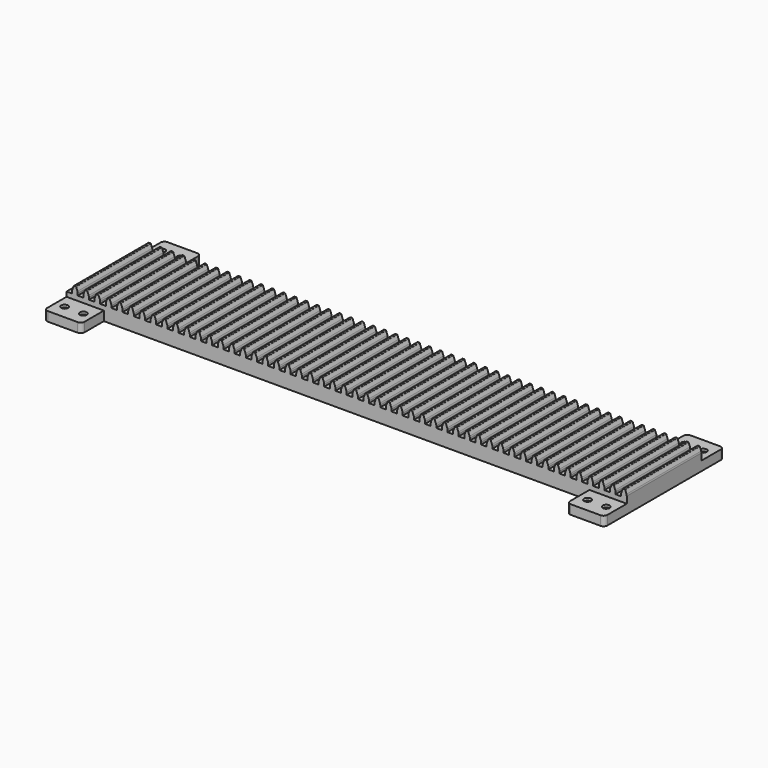
from build123d import *

# Parameters (mm, degrees)
F2_DEPTH       = 127
F1_W           = 50.8
F1_H           = 12.7
F3_DEPTH       = 38.1
F4_DEPTH       = 165.1
F5_R           = 5.08
F7_D           = 4.826
F7_CBORE_D     = 9.4742
F7_CBORE_DEPTH = 3.3782


with BuildPart() as f2:
    # F0 (on Front) → F2 (new body)
    with BuildSketch(Plane.XZ):
        Polygon((7.62, 0), (0, 0), (0, -19.05), (762, -19.05), (762, 0), (754.38, 0), (746.76, 0), (739.14, 0), (731.52, 0), (723.9, 0), (716.28, 0), (708.66, 0), (701.04, 0), (693.42, 0), (685.8, 0), (678.18, 0), (670.56, 0), (662.94, 0), (655.32, 0), (647.7, 0), (640.08, 0), (632.46, 0), (624.84, 0), (617.22, 0), (609.6, 0), (601.98, 0), (594.36, 0), (586.74, 0), (579.12, 0), (571.5, 0), (563.88, 0), (556.26, 0), (548.64, 0), (541.02, 0), (533.4, 0), (525.78, 0), (518.16, 0), (510.54, 0), (502.92, 0), (495.3, 0), (487.68, 0), (480.06, 0), (472.44, 0), (464.82, 0), (457.2, 0), (449.58, 0), (441.96, 0), (434.34, 0), (426.72, 0), (419.1, 0), (411.48, 0), (403.86, 0), (396.24, 0), (388.62, 0), (381, 0), (373.38, 0), (365.76, 0), (358.14, 0), (350.52, 0), (342.9, 0), (335.28, 0), (327.66, 0), (320.04, 0), (312.42, 0), (304.8, 0), (297.18, 0), (289.56, 0), (281.94, 0), (274.32, 0), (266.7, 0), (259.08, 0), (251.46, 0), (243.84, 0), (236.22, 0), (228.6, 0), (220.98, 0), (213.36, 0), (205.74, 0), (198.12, 0), (190.5, 0), (182.88, 0), (175.26, 0), (167.64, 0), (160.02, 0), (152.4, 0), (144.78, 0), (137.16, 0), (129.54, 0), (121.92, 0), (114.3, 0), (106.68, 0), (99.06, 0), (91.44, 0), (83.82, 0), (76.2, 0), (68.58, 0), (60.96, 0), (53.34, 0), (45.72, 0), (38.1, 0), (30.48, 0), (22.86, 0), (15.24, 0), align=None)
        with BuildLine():
            Line((7.62, 2.763048), (7.62, 0))
            Line((7.62, 0), (15.24, 0))
            Line((15.24, 0), (15.24, 2.763048))
            ThreePointArc((15.24, 2.763048), (15.138609, 3.893261), (14.837675, 4.987382))
            Line((14.837675, 4.987382), (13.094524, 9.648417))
            ThreePointArc((13.094524, 9.648417), (12.805799, 10.019584), (12.357012, 10.16))
            Line((12.357012, 10.16), (10.502988, 10.16))
            ThreePointArc((10.502988, 10.16), (10.054201, 10.019584), (9.765476, 9.648417))
            Line((9.765476, 9.648417), (8.022325, 4.987382))
            ThreePointArc((8.022325, 4.987382), (7.721391, 3.893261), (7.62, 2.763048))
        make_face()
        with BuildLine():
            Line((22.86, 2.763048), (22.86, 0))
            Line((22.86, 0), (30.48, 0))
            Line((30.48, 0), (30.48, 2.763048))
            ThreePointArc((30.48, 2.763048), (30.378609, 3.893261), (30.077675, 4.987382))
            Line((30.077675, 4.987382), (28.334524, 9.648417))
            ThreePointArc((28.334524, 9.648417), (28.045799, 10.019584), (27.597012, 10.16))
            Line((27.597012, 10.16), (25.742988, 10.16))
            ThreePointArc((25.742988, 10.16), (25.294201, 10.019584), (25.005476, 9.648417))
            Line((25.005476, 9.648417), (23.262325, 4.987382))
            ThreePointArc((23.262325, 4.987382), (22.961391, 3.893261), (22.86, 2.763048))
        make_face()
        with BuildLine():
            Line((754.38, 0), (762, 0))
            Line((762, 0), (762, 2.763048))
            ThreePointArc((762, 2.763048), (761.898609, 3.893261), (761.597675, 4.987382))
            Line((761.597675, 4.987382), (759.854524, 9.648417))
            ThreePointArc((759.854524, 9.648417), (759.565799, 10.019584), (759.117012, 10.16))
            Line((759.117012, 10.16), (757.262988, 10.16))
            ThreePointArc((757.262988, 10.16), (756.814201, 10.019584), (756.525476, 9.648417))
            Line((756.525476, 9.648417), (754.782325, 4.987382))
            ThreePointArc((754.782325, 4.987382), (754.481391, 3.893261), (754.38, 2.763048))
            Line((754.38, 2.763048), (754.38, 0))
        make_face()
        with BuildLine():
            Line((38.1, 2.763048), (38.1, 0))
            Line((38.1, 0), (45.72, 0))
            Line((45.72, 0), (45.72, 2.763048))
            ThreePointArc((45.72, 2.763048), (45.618609, 3.893261), (45.317675, 4.987382))
            Line((45.317675, 4.987382), (43.574524, 9.648417))
            ThreePointArc((43.574524, 9.648417), (43.285799, 10.019584), (42.837012, 10.16))
            Line((42.837012, 10.16), (40.982988, 10.16))
            ThreePointArc((40.982988, 10.16), (40.534201, 10.019584), (40.245476, 9.648417))
            Line((40.245476, 9.648417), (38.502325, 4.987382))
            ThreePointArc((38.502325, 4.987382), (38.201391, 3.893261), (38.1, 2.763048))
        make_face()
        with BuildLine():
            Line((739.14, 0), (746.76, 0))
            Line((746.76, 0), (746.76, 2.763048))
            ThreePointArc((746.76, 2.763048), (746.658609, 3.893261), (746.357675, 4.987382))
            Line((746.357675, 4.987382), (744.614524, 9.648417))
            ThreePointArc((744.614524, 9.648417), (744.325799, 10.019584), (743.877012, 10.16))
            Line((743.877012, 10.16), (742.022988, 10.16))
            ThreePointArc((742.022988, 10.16), (741.574201, 10.019584), (741.285476, 9.648417))
            Line((741.285476, 9.648417), (739.542325, 4.987382))
            ThreePointArc((739.542325, 4.987382), (739.241391, 3.893261), (739.14, 2.763048))
            Line((739.14, 2.763048), (739.14, 0))
        make_face()
        with BuildLine():
            Line((53.34, 2.763048), (53.34, 0))
            Line((53.34, 0), (60.96, 0))
            Line((60.96, 0), (60.96, 2.763048))
            ThreePointArc((60.96, 2.763048), (60.858609, 3.893261), (60.557675, 4.987382))
            Line((60.557675, 4.987382), (58.814524, 9.648417))
            ThreePointArc((58.814524, 9.648417), (58.525799, 10.019584), (58.077012, 10.16))
            Line((58.077012, 10.16), (56.222988, 10.16))
            ThreePointArc((56.222988, 10.16), (55.774201, 10.019584), (55.485476, 9.648417))
            Line((55.485476, 9.648417), (53.742325, 4.987382))
            ThreePointArc((53.742325, 4.987382), (53.441391, 3.893261), (53.34, 2.763048))
        make_face()
        with BuildLine():
            Line((723.9, 0), (731.52, 0))
            Line((731.52, 0), (731.52, 2.763048))
            ThreePointArc((731.52, 2.763048), (731.418609, 3.893261), (731.117675, 4.987382))
            Line((731.117675, 4.987382), (729.374524, 9.648417))
            ThreePointArc((729.374524, 9.648417), (729.085799, 10.019584), (728.637012, 10.16))
            Line((728.637012, 10.16), (726.782988, 10.16))
            ThreePointArc((726.782988, 10.16), (726.334201, 10.019584), (726.045476, 9.648417))
            Line((726.045476, 9.648417), (724.302325, 4.987382))
            ThreePointArc((724.302325, 4.987382), (724.001391, 3.893261), (723.9, 2.763048))
            Line((723.9, 2.763048), (723.9, 0))
        make_face()
        with BuildLine():
            Line((68.58, 2.763048), (68.58, 0))
            Line((68.58, 0), (76.2, 0))
            Line((76.2, 0), (76.2, 2.763048))
            ThreePointArc((76.2, 2.763048), (76.098609, 3.893261), (75.797675, 4.987382))
            Line((75.797675, 4.987382), (74.054524, 9.648417))
            ThreePointArc((74.054524, 9.648417), (73.765799, 10.019584), (73.317012, 10.16))
            Line((73.317012, 10.16), (71.462988, 10.16))
            ThreePointArc((71.462988, 10.16), (71.014201, 10.019584), (70.725476, 9.648417))
            Line((70.725476, 9.648417), (68.982325, 4.987382))
            ThreePointArc((68.982325, 4.987382), (68.681391, 3.893261), (68.58, 2.763048))
        make_face()
        with BuildLine():
            Line((708.66, 0), (716.28, 0))
            Line((716.28, 0), (716.28, 2.763048))
            ThreePointArc((716.28, 2.763048), (716.178609, 3.893261), (715.877675, 4.987382))
            Line((715.877675, 4.987382), (714.134524, 9.648417))
            ThreePointArc((714.134524, 9.648417), (713.845799, 10.019584), (713.397012, 10.16))
            Line((713.397012, 10.16), (711.542988, 10.16))
            ThreePointArc((711.542988, 10.16), (711.094201, 10.019584), (710.805476, 9.648417))
            Line((710.805476, 9.648417), (709.062325, 4.987382))
            ThreePointArc((709.062325, 4.987382), (708.761391, 3.893261), (708.66, 2.763048))
            Line((708.66, 2.763048), (708.66, 0))
        make_face()
        with BuildLine():
            Line((83.82, 2.763048), (83.82, 0))
            Line((83.82, 0), (91.44, 0))
            Line((91.44, 0), (91.44, 2.763048))
            ThreePointArc((91.44, 2.763048), (91.338609, 3.893261), (91.037675, 4.987382))
            Line((91.037675, 4.987382), (89.294524, 9.648417))
            ThreePointArc((89.294524, 9.648417), (89.005799, 10.019584), (88.557012, 10.16))
            Line((88.557012, 10.16), (86.702988, 10.16))
            ThreePointArc((86.702988, 10.16), (86.254201, 10.019584), (85.965476, 9.648417))
            Line((85.965476, 9.648417), (84.222325, 4.987382))
            ThreePointArc((84.222325, 4.987382), (83.921391, 3.893261), (83.82, 2.763048))
        make_face()
        with BuildLine():
            Line((693.42, 0), (701.04, 0))
            Line((701.04, 0), (701.04, 2.763048))
            ThreePointArc((701.04, 2.763048), (700.938609, 3.893261), (700.637675, 4.987382))
            Line((700.637675, 4.987382), (698.894524, 9.648417))
            ThreePointArc((698.894524, 9.648417), (698.605799, 10.019584), (698.157012, 10.16))
            Line((698.157012, 10.16), (696.302988, 10.16))
            ThreePointArc((696.302988, 10.16), (695.854201, 10.019584), (695.565476, 9.648417))
            Line((695.565476, 9.648417), (693.822325, 4.987382))
            ThreePointArc((693.822325, 4.987382), (693.521391, 3.893261), (693.42, 2.763048))
            Line((693.42, 2.763048), (693.42, 0))
        make_face()
        with BuildLine():
            Line((99.06, 2.763048), (99.06, 0))
            Line((99.06, 0), (106.68, 0))
            Line((106.68, 0), (106.68, 2.763048))
            ThreePointArc((106.68, 2.763048), (106.578609, 3.893261), (106.277675, 4.987382))
            Line((106.277675, 4.987382), (104.534524, 9.648417))
            ThreePointArc((104.534524, 9.648417), (104.245799, 10.019584), (103.797012, 10.16))
            Line((103.797012, 10.16), (101.942988, 10.16))
            ThreePointArc((101.942988, 10.16), (101.494201, 10.019584), (101.205476, 9.648417))
            Line((101.205476, 9.648417), (99.462325, 4.987382))
            ThreePointArc((99.462325, 4.987382), (99.161391, 3.893261), (99.06, 2.763048))
        make_face()
        with BuildLine():
            Line((678.18, 0), (685.8, 0))
            Line((685.8, 0), (685.8, 2.763048))
            ThreePointArc((685.8, 2.763048), (685.698609, 3.893261), (685.397675, 4.987382))
            Line((685.397675, 4.987382), (683.654524, 9.648417))
            ThreePointArc((683.654524, 9.648417), (683.365799, 10.019584), (682.917012, 10.16))
            Line((682.917012, 10.16), (681.062988, 10.16))
            ThreePointArc((681.062988, 10.16), (680.614201, 10.019584), (680.325476, 9.648417))
            Line((680.325476, 9.648417), (678.582325, 4.987382))
            ThreePointArc((678.582325, 4.987382), (678.281391, 3.893261), (678.18, 2.763048))
            Line((678.18, 2.763048), (678.18, 0))
        make_face()
        with BuildLine():
            Line((114.3, 2.763048), (114.3, 0))
            Line((114.3, 0), (121.92, 0))
            Line((121.92, 0), (121.92, 2.763048))
            ThreePointArc((121.92, 2.763048), (121.818609, 3.893261), (121.517675, 4.987382))
            Line((121.517675, 4.987382), (119.774524, 9.648417))
            ThreePointArc((119.774524, 9.648417), (119.485799, 10.019584), (119.037012, 10.16))
            Line((119.037012, 10.16), (117.182988, 10.16))
            ThreePointArc((117.182988, 10.16), (116.734201, 10.019584), (116.445476, 9.648417))
            Line((116.445476, 9.648417), (114.702325, 4.987382))
            ThreePointArc((114.702325, 4.987382), (114.401391, 3.893261), (114.3, 2.763048))
        make_face()
        with BuildLine():
            Line((662.94, 0), (670.56, 0))
            Line((670.56, 0), (670.56, 2.763048))
            ThreePointArc((670.56, 2.763048), (670.458609, 3.893261), (670.157675, 4.987382))
            Line((670.157675, 4.987382), (668.414524, 9.648417))
            ThreePointArc((668.414524, 9.648417), (668.125799, 10.019584), (667.677012, 10.16))
            Line((667.677012, 10.16), (665.822988, 10.16))
            ThreePointArc((665.822988, 10.16), (665.374201, 10.019584), (665.085476, 9.648417))
            Line((665.085476, 9.648417), (663.342325, 4.987382))
            ThreePointArc((663.342325, 4.987382), (663.041391, 3.893261), (662.94, 2.763048))
            Line((662.94, 2.763048), (662.94, 0))
        make_face()
        with BuildLine():
            Line((129.54, 2.763048), (129.54, 0))
            Line((129.54, 0), (137.16, 0))
            Line((137.16, 0), (137.16, 2.763048))
            ThreePointArc((137.16, 2.763048), (137.058609, 3.893261), (136.757675, 4.987382))
            Line((136.757675, 4.987382), (135.014524, 9.648417))
            ThreePointArc((135.014524, 9.648417), (134.725799, 10.019584), (134.277012, 10.16))
            Line((134.277012, 10.16), (132.422988, 10.16))
            ThreePointArc((132.422988, 10.16), (131.974201, 10.019584), (131.685476, 9.648417))
            Line((131.685476, 9.648417), (129.942325, 4.987382))
            ThreePointArc((129.942325, 4.987382), (129.641391, 3.893261), (129.54, 2.763048))
        make_face()
        with BuildLine():
            Line((647.7, 0), (655.32, 0))
            Line((655.32, 0), (655.32, 2.763048))
            ThreePointArc((655.32, 2.763048), (655.218609, 3.893261), (654.917675, 4.987382))
            Line((654.917675, 4.987382), (653.174524, 9.648417))
            ThreePointArc((653.174524, 9.648417), (652.885799, 10.019584), (652.437012, 10.16))
            Line((652.437012, 10.16), (650.582988, 10.16))
            ThreePointArc((650.582988, 10.16), (650.134201, 10.019584), (649.845476, 9.648417))
            Line((649.845476, 9.648417), (648.102325, 4.987382))
            ThreePointArc((648.102325, 4.987382), (647.801391, 3.893261), (647.7, 2.763048))
            Line((647.7, 2.763048), (647.7, 0))
        make_face()
        with BuildLine():
            Line((144.78, 2.763048), (144.78, 0))
            Line((144.78, 0), (152.4, 0))
            Line((152.4, 0), (152.4, 2.763048))
            ThreePointArc((152.4, 2.763048), (152.298609, 3.893261), (151.997675, 4.987382))
            Line((151.997675, 4.987382), (150.254524, 9.648417))
            ThreePointArc((150.254524, 9.648417), (149.965799, 10.019584), (149.517012, 10.16))
            Line((149.517012, 10.16), (147.662988, 10.16))
            ThreePointArc((147.662988, 10.16), (147.214201, 10.019584), (146.925476, 9.648417))
            Line((146.925476, 9.648417), (145.182325, 4.987382))
            ThreePointArc((145.182325, 4.987382), (144.881391, 3.893261), (144.78, 2.763048))
        make_face()
        with BuildLine():
            Line((632.46, 0), (640.08, 0))
            Line((640.08, 0), (640.08, 2.763048))
            ThreePointArc((640.08, 2.763048), (639.978609, 3.893261), (639.677675, 4.987382))
            Line((639.677675, 4.987382), (637.934524, 9.648417))
            ThreePointArc((637.934524, 9.648417), (637.645799, 10.019584), (637.197012, 10.16))
            Line((637.197012, 10.16), (635.342988, 10.16))
            ThreePointArc((635.342988, 10.16), (634.894201, 10.019584), (634.605476, 9.648417))
            Line((634.605476, 9.648417), (632.862325, 4.987382))
            ThreePointArc((632.862325, 4.987382), (632.561391, 3.893261), (632.46, 2.763048))
            Line((632.46, 2.763048), (632.46, 0))
        make_face()
        with BuildLine():
            Line((160.02, 2.763048), (160.02, 0))
            Line((160.02, 0), (167.64, 0))
            Line((167.64, 0), (167.64, 2.763048))
            ThreePointArc((167.64, 2.763048), (167.538609, 3.893261), (167.237675, 4.987382))
            Line((167.237675, 4.987382), (165.494524, 9.648417))
            ThreePointArc((165.494524, 9.648417), (165.205799, 10.019584), (164.757012, 10.16))
            Line((164.757012, 10.16), (162.902988, 10.16))
            ThreePointArc((162.902988, 10.16), (162.454201, 10.019584), (162.165476, 9.648417))
            Line((162.165476, 9.648417), (160.422325, 4.987382))
            ThreePointArc((160.422325, 4.987382), (160.121391, 3.893261), (160.02, 2.763048))
        make_face()
        with BuildLine():
            Line((617.22, 0), (624.84, 0))
            Line((624.84, 0), (624.84, 2.763048))
            ThreePointArc((624.84, 2.763048), (624.738609, 3.893261), (624.437675, 4.987382))
            Line((624.437675, 4.987382), (622.694524, 9.648417))
            ThreePointArc((622.694524, 9.648417), (622.405799, 10.019584), (621.957012, 10.16))
            Line((621.957012, 10.16), (620.102988, 10.16))
            ThreePointArc((620.102988, 10.16), (619.654201, 10.019584), (619.365476, 9.648417))
            Line((619.365476, 9.648417), (617.622325, 4.987382))
            ThreePointArc((617.622325, 4.987382), (617.321391, 3.893261), (617.22, 2.763048))
            Line((617.22, 2.763048), (617.22, 0))
        make_face()
        with BuildLine():
            Line((175.26, 2.763048), (175.26, 0))
            Line((175.26, 0), (182.88, 0))
            Line((182.88, 0), (182.88, 2.763048))
            ThreePointArc((182.88, 2.763048), (182.778609, 3.893261), (182.477675, 4.987382))
            Line((182.477675, 4.987382), (180.734524, 9.648417))
            ThreePointArc((180.734524, 9.648417), (180.445799, 10.019584), (179.997012, 10.16))
            Line((179.997012, 10.16), (178.142988, 10.16))
            ThreePointArc((178.142988, 10.16), (177.694201, 10.019584), (177.405476, 9.648417))
            Line((177.405476, 9.648417), (175.662325, 4.987382))
            ThreePointArc((175.662325, 4.987382), (175.361391, 3.893261), (175.26, 2.763048))
        make_face()
        with BuildLine():
            Line((601.98, 0), (609.6, 0))
            Line((609.6, 0), (609.6, 2.763048))
            ThreePointArc((609.6, 2.763048), (609.498609, 3.893261), (609.197675, 4.987382))
            Line((609.197675, 4.987382), (607.454524, 9.648417))
            ThreePointArc((607.454524, 9.648417), (607.165799, 10.019584), (606.717012, 10.16))
            Line((606.717012, 10.16), (604.862988, 10.16))
            ThreePointArc((604.862988, 10.16), (604.414201, 10.019584), (604.125476, 9.648417))
            Line((604.125476, 9.648417), (602.382325, 4.987382))
            ThreePointArc((602.382325, 4.987382), (602.081391, 3.893261), (601.98, 2.763048))
            Line((601.98, 2.763048), (601.98, 0))
        make_face()
        with BuildLine():
            Line((190.5, 2.763048), (190.5, 0))
            Line((190.5, 0), (198.12, 0))
            Line((198.12, 0), (198.12, 2.763048))
            ThreePointArc((198.12, 2.763048), (198.018609, 3.893261), (197.717675, 4.987382))
            Line((197.717675, 4.987382), (195.974524, 9.648417))
            ThreePointArc((195.974524, 9.648417), (195.685799, 10.019584), (195.237012, 10.16))
            Line((195.237012, 10.16), (193.382988, 10.16))
            ThreePointArc((193.382988, 10.16), (192.934201, 10.019584), (192.645476, 9.648417))
            Line((192.645476, 9.648417), (190.902325, 4.987382))
            ThreePointArc((190.902325, 4.987382), (190.601391, 3.893261), (190.5, 2.763048))
        make_face()
        with BuildLine():
            Line((586.74, 0), (594.36, 0))
            Line((594.36, 0), (594.36, 2.763048))
            ThreePointArc((594.36, 2.763048), (594.258609, 3.893261), (593.957675, 4.987382))
            Line((593.957675, 4.987382), (592.214524, 9.648417))
            ThreePointArc((592.214524, 9.648417), (591.925799, 10.019584), (591.477012, 10.16))
            Line((591.477012, 10.16), (589.622988, 10.16))
            ThreePointArc((589.622988, 10.16), (589.174201, 10.019584), (588.885476, 9.648417))
            Line((588.885476, 9.648417), (587.142325, 4.987382))
            ThreePointArc((587.142325, 4.987382), (586.841391, 3.893261), (586.74, 2.763048))
            Line((586.74, 2.763048), (586.74, 0))
        make_face()
        with BuildLine():
            Line((205.74, 2.763048), (205.74, 0))
            Line((205.74, 0), (213.36, 0))
            Line((213.36, 0), (213.36, 2.763048))
            ThreePointArc((213.36, 2.763048), (213.258609, 3.893261), (212.957675, 4.987382))
            Line((212.957675, 4.987382), (211.214524, 9.648417))
            ThreePointArc((211.214524, 9.648417), (210.925799, 10.019584), (210.477012, 10.16))
            Line((210.477012, 10.16), (208.622988, 10.16))
            ThreePointArc((208.622988, 10.16), (208.174201, 10.019584), (207.885476, 9.648417))
            Line((207.885476, 9.648417), (206.142325, 4.987382))
            ThreePointArc((206.142325, 4.987382), (205.841391, 3.893261), (205.74, 2.763048))
        make_face()
        with BuildLine():
            Line((571.5, 0), (579.12, 0))
            Line((579.12, 0), (579.12, 2.763048))
            ThreePointArc((579.12, 2.763048), (579.018609, 3.893261), (578.717675, 4.987382))
            Line((578.717675, 4.987382), (576.974524, 9.648417))
            ThreePointArc((576.974524, 9.648417), (576.685799, 10.019584), (576.237012, 10.16))
            Line((576.237012, 10.16), (574.382988, 10.16))
            ThreePointArc((574.382988, 10.16), (573.934201, 10.019584), (573.645476, 9.648417))
            Line((573.645476, 9.648417), (571.902325, 4.987382))
            ThreePointArc((571.902325, 4.987382), (571.601391, 3.893261), (571.5, 2.763048))
            Line((571.5, 2.763048), (571.5, 0))
        make_face()
        with BuildLine():
            Line((220.98, 2.763048), (220.98, 0))
            Line((220.98, 0), (228.6, 0))
            Line((228.6, 0), (228.6, 2.763048))
            ThreePointArc((228.6, 2.763048), (228.498609, 3.893261), (228.197675, 4.987382))
            Line((228.197675, 4.987382), (226.454524, 9.648417))
            ThreePointArc((226.454524, 9.648417), (226.165799, 10.019584), (225.717012, 10.16))
            Line((225.717012, 10.16), (223.862988, 10.16))
            ThreePointArc((223.862988, 10.16), (223.414201, 10.019584), (223.125476, 9.648417))
            Line((223.125476, 9.648417), (221.382325, 4.987382))
            ThreePointArc((221.382325, 4.987382), (221.081391, 3.893261), (220.98, 2.763048))
        make_face()
        with BuildLine():
            Line((556.26, 0), (563.88, 0))
            Line((563.88, 0), (563.88, 2.763048))
            ThreePointArc((563.88, 2.763048), (563.778609, 3.893261), (563.477675, 4.987382))
            Line((563.477675, 4.987382), (561.734524, 9.648417))
            ThreePointArc((561.734524, 9.648417), (561.445799, 10.019584), (560.997012, 10.16))
            Line((560.997012, 10.16), (559.142988, 10.16))
            ThreePointArc((559.142988, 10.16), (558.694201, 10.019584), (558.405476, 9.648417))
            Line((558.405476, 9.648417), (556.662325, 4.987382))
            ThreePointArc((556.662325, 4.987382), (556.361391, 3.893261), (556.26, 2.763048))
            Line((556.26, 2.763048), (556.26, 0))
        make_face()
        with BuildLine():
            Line((236.22, 2.763048), (236.22, 0))
            Line((236.22, 0), (243.84, 0))
            Line((243.84, 0), (243.84, 2.763048))
            ThreePointArc((243.84, 2.763048), (243.738609, 3.893261), (243.437675, 4.987382))
            Line((243.437675, 4.987382), (241.694524, 9.648417))
            ThreePointArc((241.694524, 9.648417), (241.405799, 10.019584), (240.957012, 10.16))
            Line((240.957012, 10.16), (239.102988, 10.16))
            ThreePointArc((239.102988, 10.16), (238.654201, 10.019584), (238.365476, 9.648417))
            Line((238.365476, 9.648417), (236.622325, 4.987382))
            ThreePointArc((236.622325, 4.987382), (236.321391, 3.893261), (236.22, 2.763048))
        make_face()
        with BuildLine():
            Line((541.02, 0), (548.64, 0))
            Line((548.64, 0), (548.64, 2.763048))
            ThreePointArc((548.64, 2.763048), (548.538609, 3.893261), (548.237675, 4.987382))
            Line((548.237675, 4.987382), (546.494524, 9.648417))
            ThreePointArc((546.494524, 9.648417), (546.205799, 10.019584), (545.757012, 10.16))
            Line((545.757012, 10.16), (543.902988, 10.16))
            ThreePointArc((543.902988, 10.16), (543.454201, 10.019584), (543.165476, 9.648417))
            Line((543.165476, 9.648417), (541.422325, 4.987382))
            ThreePointArc((541.422325, 4.987382), (541.121391, 3.893261), (541.02, 2.763048))
            Line((541.02, 2.763048), (541.02, 0))
        make_face()
        with BuildLine():
            Line((251.46, 2.763048), (251.46, 0))
            Line((251.46, 0), (259.08, 0))
            Line((259.08, 0), (259.08, 2.763048))
            ThreePointArc((259.08, 2.763048), (258.978609, 3.893261), (258.677675, 4.987382))
            Line((258.677675, 4.987382), (256.934524, 9.648417))
            ThreePointArc((256.934524, 9.648417), (256.645799, 10.019584), (256.197012, 10.16))
            Line((256.197012, 10.16), (254.342988, 10.16))
            ThreePointArc((254.342988, 10.16), (253.894201, 10.019584), (253.605476, 9.648417))
            Line((253.605476, 9.648417), (251.862325, 4.987382))
            ThreePointArc((251.862325, 4.987382), (251.561391, 3.893261), (251.46, 2.763048))
        make_face()
        with BuildLine():
            Line((525.78, 0), (533.4, 0))
            Line((533.4, 0), (533.4, 2.763048))
            ThreePointArc((533.4, 2.763048), (533.298609, 3.893261), (532.997675, 4.987382))
            Line((532.997675, 4.987382), (531.254524, 9.648417))
            ThreePointArc((531.254524, 9.648417), (530.965799, 10.019584), (530.517012, 10.16))
            Line((530.517012, 10.16), (528.662988, 10.16))
            ThreePointArc((528.662988, 10.16), (528.214201, 10.019584), (527.925476, 9.648417))
            Line((527.925476, 9.648417), (526.182325, 4.987382))
            ThreePointArc((526.182325, 4.987382), (525.881391, 3.893261), (525.78, 2.763048))
            Line((525.78, 2.763048), (525.78, 0))
        make_face()
        with BuildLine():
            Line((266.7, 2.763048), (266.7, 0))
            Line((266.7, 0), (274.32, 0))
            Line((274.32, 0), (274.32, 2.763048))
            ThreePointArc((274.32, 2.763048), (274.218609, 3.893261), (273.917675, 4.987382))
            Line((273.917675, 4.987382), (272.174524, 9.648417))
            ThreePointArc((272.174524, 9.648417), (271.885799, 10.019584), (271.437012, 10.16))
            Line((271.437012, 10.16), (269.582988, 10.16))
            ThreePointArc((269.582988, 10.16), (269.134201, 10.019584), (268.845476, 9.648417))
            Line((268.845476, 9.648417), (267.102325, 4.987382))
            ThreePointArc((267.102325, 4.987382), (266.801391, 3.893261), (266.7, 2.763048))
        make_face()
        with BuildLine():
            Line((510.54, 0), (518.16, 0))
            Line((518.16, 0), (518.16, 2.763048))
            ThreePointArc((518.16, 2.763048), (518.058609, 3.893261), (517.757675, 4.987382))
            Line((517.757675, 4.987382), (516.014524, 9.648417))
            ThreePointArc((516.014524, 9.648417), (515.725799, 10.019584), (515.277012, 10.16))
            Line((515.277012, 10.16), (513.422988, 10.16))
            ThreePointArc((513.422988, 10.16), (512.974201, 10.019584), (512.685476, 9.648417))
            Line((512.685476, 9.648417), (510.942325, 4.987382))
            ThreePointArc((510.942325, 4.987382), (510.641391, 3.893261), (510.54, 2.763048))
            Line((510.54, 2.763048), (510.54, 0))
        make_face()
        with BuildLine():
            Line((281.94, 2.763048), (281.94, 0))
            Line((281.94, 0), (289.56, 0))
            Line((289.56, 0), (289.56, 2.763048))
            ThreePointArc((289.56, 2.763048), (289.458609, 3.893261), (289.157675, 4.987382))
            Line((289.157675, 4.987382), (287.414524, 9.648417))
            ThreePointArc((287.414524, 9.648417), (287.125799, 10.019584), (286.677012, 10.16))
            Line((286.677012, 10.16), (284.822988, 10.16))
            ThreePointArc((284.822988, 10.16), (284.374201, 10.019584), (284.085476, 9.648417))
            Line((284.085476, 9.648417), (282.342325, 4.987382))
            ThreePointArc((282.342325, 4.987382), (282.041391, 3.893261), (281.94, 2.763048))
        make_face()
        with BuildLine():
            Line((495.3, 0), (502.92, 0))
            Line((502.92, 0), (502.92, 2.763048))
            ThreePointArc((502.92, 2.763048), (502.818609, 3.893261), (502.517675, 4.987382))
            Line((502.517675, 4.987382), (500.774524, 9.648417))
            ThreePointArc((500.774524, 9.648417), (500.485799, 10.019584), (500.037012, 10.16))
            Line((500.037012, 10.16), (498.182988, 10.16))
            ThreePointArc((498.182988, 10.16), (497.734201, 10.019584), (497.445476, 9.648417))
            Line((497.445476, 9.648417), (495.702325, 4.987382))
            ThreePointArc((495.702325, 4.987382), (495.401391, 3.893261), (495.3, 2.763048))
            Line((495.3, 2.763048), (495.3, 0))
        make_face()
        with BuildLine():
            Line((297.18, 2.763048), (297.18, 0))
            Line((297.18, 0), (304.8, 0))
            Line((304.8, 0), (304.8, 2.763048))
            ThreePointArc((304.8, 2.763048), (304.698609, 3.893261), (304.397675, 4.987382))
            Line((304.397675, 4.987382), (302.654524, 9.648417))
            ThreePointArc((302.654524, 9.648417), (302.365799, 10.019584), (301.917012, 10.16))
            Line((301.917012, 10.16), (300.062988, 10.16))
            ThreePointArc((300.062988, 10.16), (299.614201, 10.019584), (299.325476, 9.648417))
            Line((299.325476, 9.648417), (297.582325, 4.987382))
            ThreePointArc((297.582325, 4.987382), (297.281391, 3.893261), (297.18, 2.763048))
        make_face()
        with BuildLine():
            Line((480.06, 0), (487.68, 0))
            Line((487.68, 0), (487.68, 2.763048))
            ThreePointArc((487.68, 2.763048), (487.578609, 3.893261), (487.277675, 4.987382))
            Line((487.277675, 4.987382), (485.534524, 9.648417))
            ThreePointArc((485.534524, 9.648417), (485.245799, 10.019584), (484.797012, 10.16))
            Line((484.797012, 10.16), (482.942988, 10.16))
            ThreePointArc((482.942988, 10.16), (482.494201, 10.019584), (482.205476, 9.648417))
            Line((482.205476, 9.648417), (480.462325, 4.987382))
            ThreePointArc((480.462325, 4.987382), (480.161391, 3.893261), (480.06, 2.763048))
            Line((480.06, 2.763048), (480.06, 0))
        make_face()
        with BuildLine():
            Line((312.42, 2.763048), (312.42, 0))
            Line((312.42, 0), (320.04, 0))
            Line((320.04, 0), (320.04, 2.763048))
            ThreePointArc((320.04, 2.763048), (319.938609, 3.893261), (319.637675, 4.987382))
            Line((319.637675, 4.987382), (317.894524, 9.648417))
            ThreePointArc((317.894524, 9.648417), (317.605799, 10.019584), (317.157012, 10.16))
            Line((317.157012, 10.16), (315.302988, 10.16))
            ThreePointArc((315.302988, 10.16), (314.854201, 10.019584), (314.565476, 9.648417))
            Line((314.565476, 9.648417), (312.822325, 4.987382))
            ThreePointArc((312.822325, 4.987382), (312.521391, 3.893261), (312.42, 2.763048))
        make_face()
        with BuildLine():
            Line((464.82, 0), (472.44, 0))
            Line((472.44, 0), (472.44, 2.763048))
            ThreePointArc((472.44, 2.763048), (472.338609, 3.893261), (472.037675, 4.987382))
            Line((472.037675, 4.987382), (470.294524, 9.648417))
            ThreePointArc((470.294524, 9.648417), (470.005799, 10.019584), (469.557012, 10.16))
            Line((469.557012, 10.16), (467.702988, 10.16))
            ThreePointArc((467.702988, 10.16), (467.254201, 10.019584), (466.965476, 9.648417))
            Line((466.965476, 9.648417), (465.222325, 4.987382))
            ThreePointArc((465.222325, 4.987382), (464.921391, 3.893261), (464.82, 2.763048))
            Line((464.82, 2.763048), (464.82, 0))
        make_face()
        with BuildLine():
            Line((327.66, 2.763048), (327.66, 0))
            Line((327.66, 0), (335.28, 0))
            Line((335.28, 0), (335.28, 2.763048))
            ThreePointArc((335.28, 2.763048), (335.178609, 3.893261), (334.877675, 4.987382))
            Line((334.877675, 4.987382), (333.134524, 9.648417))
            ThreePointArc((333.134524, 9.648417), (332.845799, 10.019584), (332.397012, 10.16))
            Line((332.397012, 10.16), (330.542988, 10.16))
            ThreePointArc((330.542988, 10.16), (330.094201, 10.019584), (329.805476, 9.648417))
            Line((329.805476, 9.648417), (328.062325, 4.987382))
            ThreePointArc((328.062325, 4.987382), (327.761391, 3.893261), (327.66, 2.763048))
        make_face()
        with BuildLine():
            Line((449.58, 0), (457.2, 0))
            Line((457.2, 0), (457.2, 2.763048))
            ThreePointArc((457.2, 2.763048), (457.098609, 3.893261), (456.797675, 4.987382))
            Line((456.797675, 4.987382), (455.054524, 9.648417))
            ThreePointArc((455.054524, 9.648417), (454.765799, 10.019584), (454.317012, 10.16))
            Line((454.317012, 10.16), (452.462988, 10.16))
            ThreePointArc((452.462988, 10.16), (452.014201, 10.019584), (451.725476, 9.648417))
            Line((451.725476, 9.648417), (449.982325, 4.987382))
            ThreePointArc((449.982325, 4.987382), (449.681391, 3.893261), (449.58, 2.763048))
            Line((449.58, 2.763048), (449.58, 0))
        make_face()
        with BuildLine():
            Line((342.9, 2.763048), (342.9, 0))
            Line((342.9, 0), (350.52, 0))
            Line((350.52, 0), (350.52, 2.763048))
            ThreePointArc((350.52, 2.763048), (350.418609, 3.893261), (350.117675, 4.987382))
            Line((350.117675, 4.987382), (348.374524, 9.648417))
            ThreePointArc((348.374524, 9.648417), (348.085799, 10.019584), (347.637012, 10.16))
            Line((347.637012, 10.16), (345.782988, 10.16))
            ThreePointArc((345.782988, 10.16), (345.334201, 10.019584), (345.045476, 9.648417))
            Line((345.045476, 9.648417), (343.302325, 4.987382))
            ThreePointArc((343.302325, 4.987382), (343.001391, 3.893261), (342.9, 2.763048))
        make_face()
        with BuildLine():
            Line((434.34, 0), (441.96, 0))
            Line((441.96, 0), (441.96, 2.763048))
            ThreePointArc((441.96, 2.763048), (441.858609, 3.893261), (441.557675, 4.987382))
            Line((441.557675, 4.987382), (439.814524, 9.648417))
            ThreePointArc((439.814524, 9.648417), (439.525799, 10.019584), (439.077012, 10.16))
            Line((439.077012, 10.16), (437.222988, 10.16))
            ThreePointArc((437.222988, 10.16), (436.774201, 10.019584), (436.485476, 9.648417))
            Line((436.485476, 9.648417), (434.742325, 4.987382))
            ThreePointArc((434.742325, 4.987382), (434.441391, 3.893261), (434.34, 2.763048))
            Line((434.34, 2.763048), (434.34, 0))
        make_face()
        with BuildLine():
            Line((358.14, 2.763048), (358.14, 0))
            Line((358.14, 0), (365.76, 0))
            Line((365.76, 0), (365.76, 2.763048))
            ThreePointArc((365.76, 2.763048), (365.658609, 3.893261), (365.357675, 4.987382))
            Line((365.357675, 4.987382), (363.614524, 9.648417))
            ThreePointArc((363.614524, 9.648417), (363.325799, 10.019584), (362.877012, 10.16))
            Line((362.877012, 10.16), (361.022988, 10.16))
            ThreePointArc((361.022988, 10.16), (360.574201, 10.019584), (360.285476, 9.648417))
            Line((360.285476, 9.648417), (358.542325, 4.987382))
            ThreePointArc((358.542325, 4.987382), (358.241391, 3.893261), (358.14, 2.763048))
        make_face()
        with BuildLine():
            Line((419.1, 0), (426.72, 0))
            Line((426.72, 0), (426.72, 2.763048))
            ThreePointArc((426.72, 2.763048), (426.618609, 3.893261), (426.317675, 4.987382))
            Line((426.317675, 4.987382), (424.574524, 9.648417))
            ThreePointArc((424.574524, 9.648417), (424.285799, 10.019584), (423.837012, 10.16))
            Line((423.837012, 10.16), (421.982988, 10.16))
            ThreePointArc((421.982988, 10.16), (421.534201, 10.019584), (421.245476, 9.648417))
            Line((421.245476, 9.648417), (419.502325, 4.987382))
            ThreePointArc((419.502325, 4.987382), (419.201391, 3.893261), (419.1, 2.763048))
            Line((419.1, 2.763048), (419.1, 0))
        make_face()
        with BuildLine():
            Line((373.38, 2.763048), (373.38, 0))
            Line((373.38, 0), (381, 0))
            Line((381, 0), (381, 2.763048))
            ThreePointArc((381, 2.763048), (380.898609, 3.893261), (380.597675, 4.987382))
            Line((380.597675, 4.987382), (378.854524, 9.648417))
            ThreePointArc((378.854524, 9.648417), (378.565799, 10.019584), (378.117012, 10.16))
            Line((378.117012, 10.16), (376.262988, 10.16))
            ThreePointArc((376.262988, 10.16), (375.814201, 10.019584), (375.525476, 9.648417))
            Line((375.525476, 9.648417), (373.782325, 4.987382))
            ThreePointArc((373.782325, 4.987382), (373.481391, 3.893261), (373.38, 2.763048))
        make_face()
        with BuildLine():
            Line((403.86, 0), (411.48, 0))
            Line((411.48, 0), (411.48, 2.763048))
            ThreePointArc((411.48, 2.763048), (411.378609, 3.893261), (411.077675, 4.987382))
            Line((411.077675, 4.987382), (409.334524, 9.648417))
            ThreePointArc((409.334524, 9.648417), (409.045799, 10.019584), (408.597012, 10.16))
            Line((408.597012, 10.16), (406.742988, 10.16))
            ThreePointArc((406.742988, 10.16), (406.294201, 10.019584), (406.005476, 9.648417))
            Line((406.005476, 9.648417), (404.262325, 4.987382))
            ThreePointArc((404.262325, 4.987382), (403.961391, 3.893261), (403.86, 2.763048))
            Line((403.86, 2.763048), (403.86, 0))
        make_face()
        with BuildLine():
            Line((388.62, 2.763048), (388.62, 0))
            Line((388.62, 0), (396.24, 0))
            Line((396.24, 0), (396.24, 2.763048))
            ThreePointArc((396.24, 2.763048), (396.138609, 3.893261), (395.837675, 4.987382))
            Line((395.837675, 4.987382), (394.094524, 9.648417))
            ThreePointArc((394.094524, 9.648417), (393.805799, 10.019584), (393.357012, 10.16))
            Line((393.357012, 10.16), (391.502988, 10.16))
            ThreePointArc((391.502988, 10.16), (391.054201, 10.019584), (390.765476, 9.648417))
            Line((390.765476, 9.648417), (389.022325, 4.987382))
            ThreePointArc((389.022325, 4.987382), (388.721391, 3.893261), (388.62, 2.763048))
        make_face()
    extrude(amount=F2_DEPTH)

    # F1 (on Front) → F3 (join)
    with BuildSketch(Plane.XZ):
        with Locations((25.4, -12.7)):
            Rectangle(F1_W, F1_H)
        with Locations((736.6, -12.7)):
            Rectangle(F1_W, F1_H)
    extrude(amount=-F3_DEPTH)

    # F1 (on Front) → F4 (join)
    with BuildSketch(Plane.XZ):
        with Locations((25.4, -12.7)):
            Rectangle(F1_W, F1_H)
        with Locations((736.6, -12.7)):
            Rectangle(F1_W, F1_H)
    extrude(amount=F4_DEPTH)

    # F5
    f5_edges = [f2.edges().sort_by_distance(p)[0] for p in [
        (0, -165.1, -12.7),
        (0, 38.1, -12.7),
        (762, 38.1, -12.7),
        (762, -165.1, -12.7),
        (711.2, -165.1, -12.7),
        (711.2, 38.1, -12.7),
        (50.8, -165.1, -12.7),
        (50.8, 38.1, -12.7),
    ]]
    fillet(f5_edges, radius=F5_R)

    # F7 (through all)
    with Locations(Plane.XY.offset(-6.35)):
        with Locations((12.7, 19.05), (38.1, 19.05), (12.7, -146.05), (38.1, -146.05), (723.9, 19.05), (749.3, 19.05), (723.9, -146.05), (749.3, -146.05)):
            CounterBoreHole(F7_D / 2, F7_CBORE_D / 2, F7_CBORE_DEPTH)


solid = f2.part
